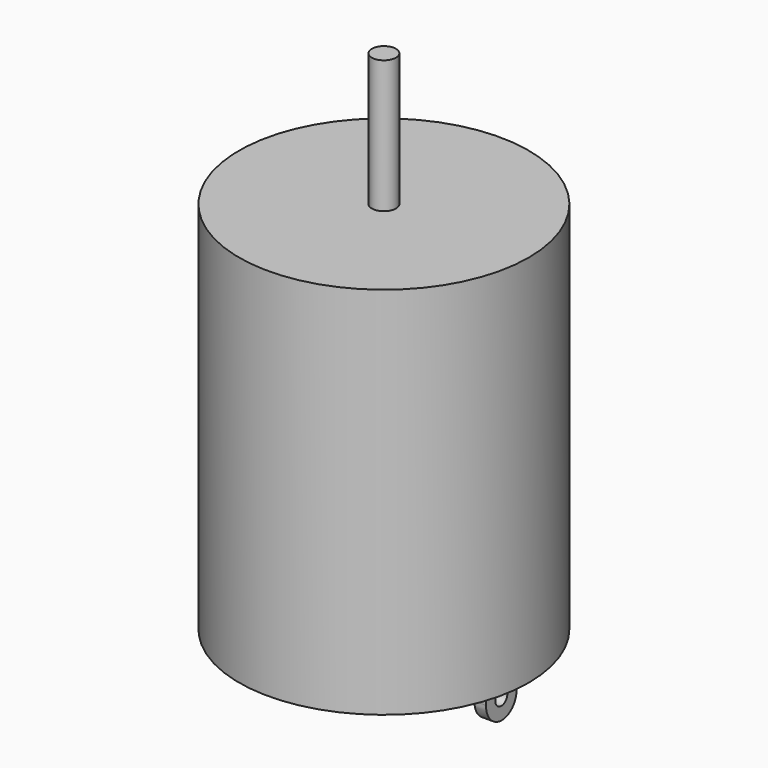
from build123d import *

# Parameters (mm, degrees)
F0_R     = 12
F1_DEPTH = 31
F2_R     = 1
F3_DEPTH = 11
F4_W     = 0.961760059
F4_H     = 3.1858317088
F5_DEPTH = 3.5
F6_R     = 0.6249075308
F7_DEPTH = 21.7267718444


with BuildPart() as f1:
    # F0 (on Top) → F1 (new body)
    with BuildSketch(Plane.XY):
        Circle(F0_R)
    extrude(amount=F1_DEPTH)

    # F2 (on face) → F3 (join)
    with BuildSketch(Plane.XY.offset(31)):
        Circle(F2_R)
    extrude(amount=F3_DEPTH)

    # F4 (on face) → F5 (join)
    with BuildSketch(Plane(origin=(0, 0, 0), x_dir=(1, 0, 0), z_dir=(0, 0, -1))):
        with Locations((-9.2448918149, -0.0064170454)):
            Rectangle(F4_W, F4_H)
        with Locations((9.2448918149, -0.0064170454)):
            Rectangle(F4_W, F4_H)
    extrude(amount=F5_DEPTH)

    # F6 (on face) → F7 (cut, through all)
    with BuildSketch(Plane.YZ.offset(9.7257718444)):
        with BuildLine():
            add(Edge.make_bspline(
                [(0.0887662493, -3.5), (0.8568494058, -3.4783165811), (1.5993328998, -2.8509894263), (1.5993328998, -1.75)],
                knots=[0.5172392132, 0.5172392132, 0.5172392132, 0.5172392132, 1, 1, 1, 1], degree=3))
            Line((0.0887662493, -3.5), (1.5993328998, -3.5))
            Line((1.5993328998, -3.5), (1.5993328998, -1.75))
        make_face()
        with BuildLine():
            add(Edge.make_bspline(
                [(-1.586498809, -1.75), (-1.586498809, -2.800242044), (-0.7900408818, -3.4774841708), (0.0064170454, -3.5)],
                knots=[0, 0, 0, 0, 0.5, 0.5, 0.5, 0.5], degree=3))
            Line((-1.586498809, -1.75), (-1.586498809, -3.5))
            Line((-1.586498809, -3.5), (0.0064170454, -3.5))
        make_face()
        with Locations((0, -1.8095459091)):
            Circle(F6_R)
    extrude(amount=-F7_DEPTH, mode=Mode.SUBTRACT)


solid = f1.part
